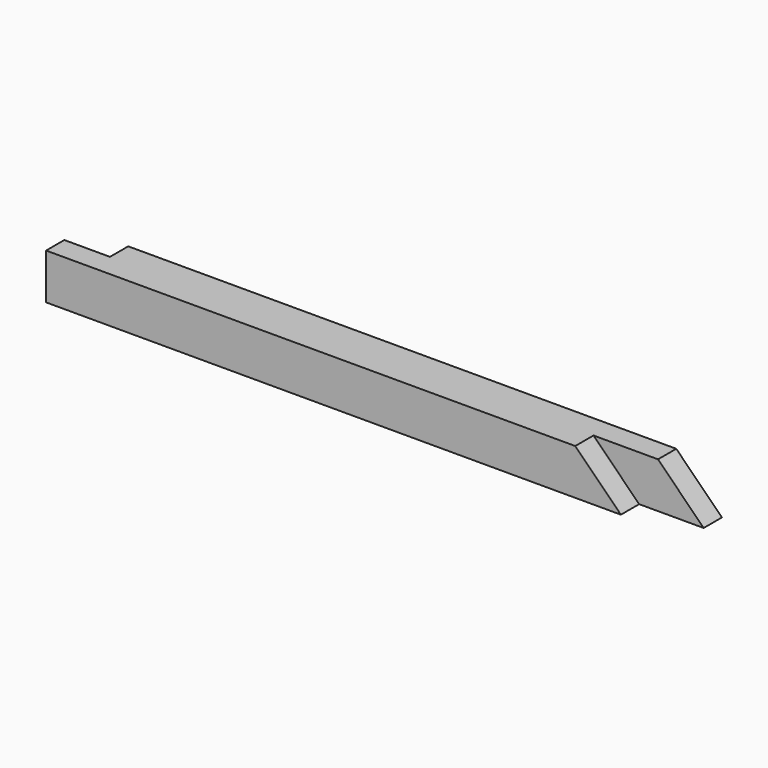
from build123d import *

# Parameters (mm, degrees)
F1_DEPTH = 50
F3_DEPTH = 25
F4_W     = 50
F4_H     = 50
F5_DEPTH = 25


with BuildPart() as f1:
    # F0 (on Front) → F1 (new body)
    with BuildSketch(Plane.XZ):
        Polygon((874.097177, 74.70942), (874.097177, 24.70942), (1574.597177, 24.70942), (1524.597177, 74.70942), align=None)
    extrude(amount=F1_DEPTH)

    # F2 (on face) → F3 (cut)
    with BuildSketch(Plane.XZ.offset(50)):
        Polygon((1503.886499, 24.70942), (1574.597177, 24.70942), (1524.597177, 74.70942), (1453.886499, 74.70942), align=None)
    extrude(amount=-F3_DEPTH, mode=Mode.SUBTRACT)

    # F4 (on face) → F5 (cut)
    with BuildSketch(Plane(origin=(0, 0, 0), x_dir=(-1, 0, 0), z_dir=(0, 1, 0))):
        with Locations((-899.097177, 49.70942)):
            Rectangle(F4_W, F4_H)
    extrude(amount=-F5_DEPTH, mode=Mode.SUBTRACT)


solid = f1.part
